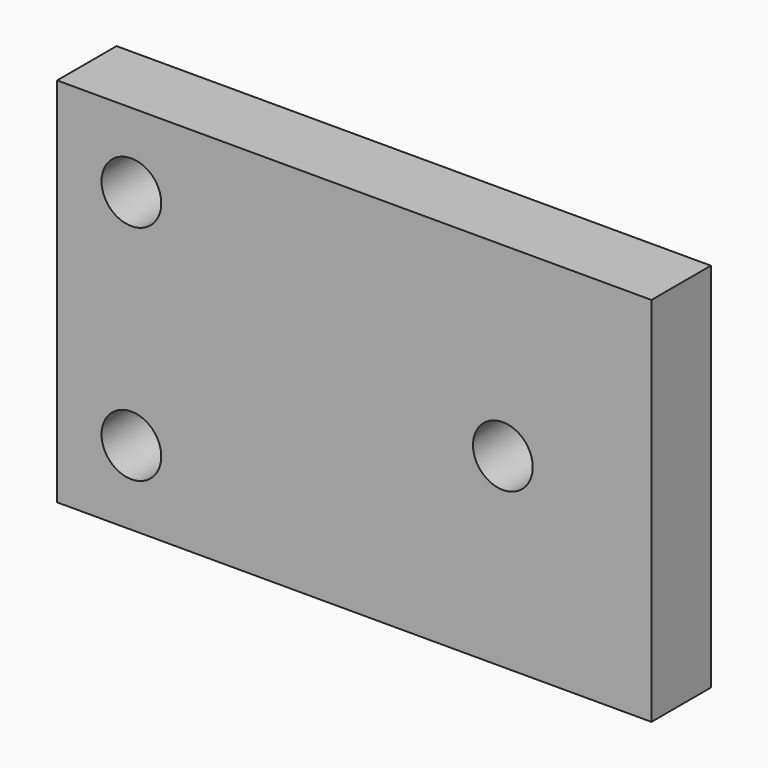
from build123d import *

# Parameters (mm, degrees)
F0_W     = 50.8
F0_H     = 31.75
F1_DEPTH = 6.35
F3_D     = 5.1054


with BuildPart() as f1:
    # F0 (on Front) → F1 (new body)
    with BuildSketch(Plane.XZ):
        with Locations((25.4, 15.875)):
            Rectangle(F0_W, F0_H)
    extrude(amount=F1_DEPTH)

    # F3 (through all)
    with Locations(Plane.XZ.offset(6.35)):
        with Locations((6.35, 25.4), (6.35, 6.35), (38.1, 15.875)):
            Hole(F3_D / 2)


solid = f1.part
